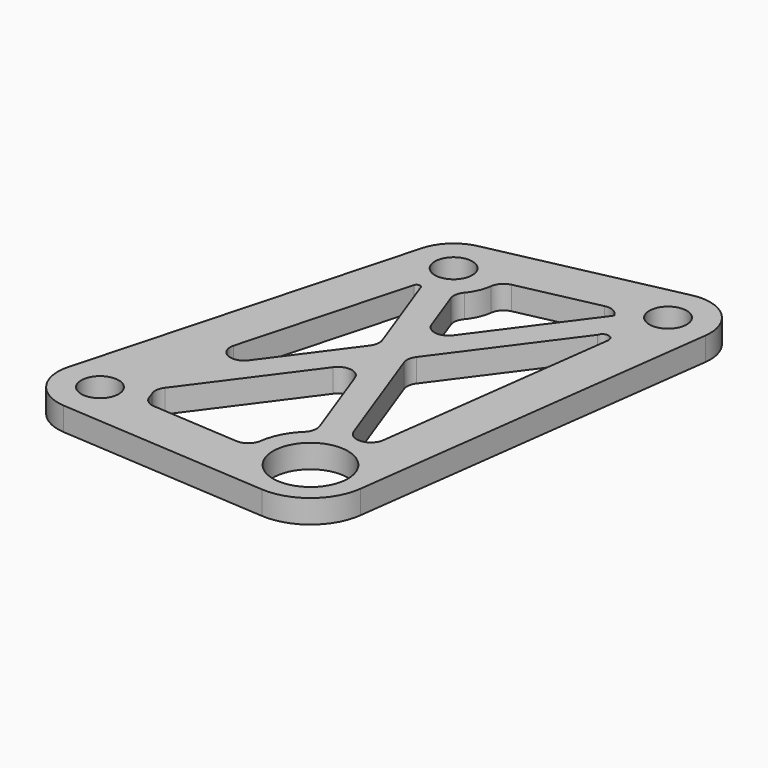
from build123d import *

# Parameters (mm, degrees)
F0_R     = 4
F0_R_2   = 8
F1_DEPTH = 5


with BuildPart() as f1:
    # F0 (on Top) → F1 (new body)
    with BuildSketch(Plane.XY):
        with BuildLine():
            Line((19.390299, 73.280526), (-19.7102, 64.84542))
            ThreePointArc((-19.7102, 64.84542), (-24.001035, 62.582299), (-26.493853, 58.420709))
            Line((-26.493853, 58.420709), (-45.747654, -12.021702))
            ThreePointArc((-45.747654, -12.021702), (-44.398139, -19.613916), (-37.666102, -23.37458))
            Line((-37.666102, -23.37458), (7.133898, -26.367906))
            ThreePointArc((7.133898, -26.367906), (15.543966, -23.672904), (19.832321, -15.952653))
            Line((19.832321, -15.952653), (30.212015, 63.314377))
            ThreePointArc((30.212015, 63.314377), (27.385075, 71.103192), (19.390299, 73.280526))
        make_face()
        with Locations((-37.066102, -14.394603)):
            Circle(F0_R, mode=Mode.SUBTRACT)
        with BuildLine():
            ThreePointArc((-25.710896, -14.151075), (-27.402393, -13.486319), (-28.399698, -11.966962))
            ThreePointArc((-28.399698, -11.966962), (-28.586382, -11.37892), (-28.812914, -10.80505))
            ThreePointArc((-28.812914, -10.80505), (-29.0426, -9.269216), (-28.473597, -7.824301))
            Line((-28.473597, -7.824301), (-11.165939, 15.570463))
            ThreePointArc((-11.165939, 15.570463), (-8.325856, 16.755496), (-5.936497, 14.81608))
            Line((-5.936497, 14.81608), (0.396845, -2.512144))
            ThreePointArc((0.396845, -2.512144), (0.500674, -4.223675), (-0.349901, -5.712514))
            ThreePointArc((-0.349901, -5.712514), (-2.758659, -8.947656), (-3.959435, -12.798162))
            ThreePointArc((-3.959435, -12.798162), (-5.033997, -14.721694), (-7.132769, -15.392378))
            Line((-7.132769, -15.392378), (-25.710896, -14.151075))
        make_face(mode=Mode.SUBTRACT)
        with Locations((7.933898, -14.394603)):
            Circle(F0_R_2, mode=Mode.SUBTRACT)
        with BuildLine():
            ThreePointArc((-23.704846, 8.709998), (-27.426561, 7.795344), (-29.010443, 11.285196))
            Line((-29.010443, 11.285196), (-19.205892, 47.156357))
            ThreePointArc((-19.205892, 47.156357), (-18.590371, 47.707216), (-17.835441, 47.371966))
            Line((-17.835441, 47.371966), (-17.717148, 47.048311))
            Line((-17.717148, 47.048311), (-10.872426, 28.320938))
            ThreePointArc((-10.872426, 28.320938), (-10.720859, 26.862753), (-11.278377, 25.506859))
            Line((-11.278377, 25.506859), (-23.704846, 8.709998))
        make_face(mode=Mode.SUBTRACT)
        with Locations((-17.812301, 56.047808)):
            Circle(F0_R, mode=Mode.SUBTRACT)
        with BuildLine():
            ThreePointArc((11.860198, 0.185664), (10.79185, -1.741326), (8.695253, -2.41878))
            ThreePointArc((8.695253, -2.41878), (8.680991, -2.417881), (8.666727, -2.417))
            ThreePointArc((8.666727, -2.417), (7.056552, -1.827548), (6.032238, -0.452448))
            Line((6.032238, -0.452448), (-3.020297, 24.315573))
            ThreePointArc((-3.020297, 24.315573), (-3.171864, 25.773758), (-2.614346, 27.129653))
            Line((-2.614346, 27.129653), (15.979434, 52.262869))
            ThreePointArc((15.979434, 52.262869), (17.536186, 53.24565), (18.612615, 51.752118))
            Line((18.612615, 51.752118), (11.860198, 0.185664))
        make_face(mode=Mode.SUBTRACT)
        with BuildLine():
            Line((-6.542132, 57.456104), (10.439784, 61.119593))
            ThreePointArc((10.439784, 61.119593), (12.248976, 60.946714), (13.626362, 59.761021))
            ThreePointArc((13.626362, 59.761021), (13.726479, 59.602298), (13.829883, 59.445698))
            Line((13.829883, 59.445698), (-2.726784, 37.066048))
            ThreePointArc((-2.726784, 37.066048), (-5.566867, 35.881016), (-7.956226, 37.820432))
            Line((-7.956226, 37.820432), (-11.427107, 47.316869))
            ThreePointArc((-11.427107, 47.316869), (-11.564531, 48.863691), (-10.910133, 50.27199))
            ThreePointArc((-10.910133, 50.27199), (-9.565679, 52.443196), (-8.8852, 54.904627))
            ThreePointArc((-8.8852, 54.904627), (-8.119143, 56.552722), (-6.542132, 57.456104))
        make_face(mode=Mode.SUBTRACT)
        with Locations((21.288197, 64.482914)):
            Circle(F0_R, mode=Mode.SUBTRACT)
    extrude(amount=F1_DEPTH)


solid = f1.part
